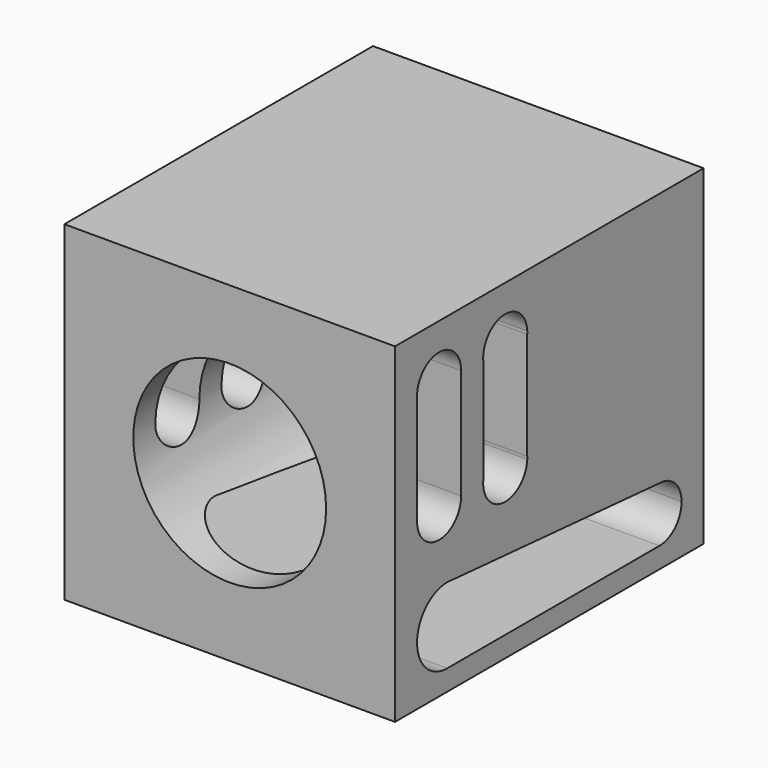
from build123d import *

# Parameters (mm, degrees)
F0_W      = 30.48
F0_H      = 30.48
F1_DEPTH  = 35.56
F3_DEPTH  = 38.1
F5_DEPTH  = 38.1
F6_R      = 8.89
F7_DEPTH  = 22.86
F8_R      = 10.16
F9_DEPTH  = 1.27
F10_R     = 6.35
F11_DEPTH = 38.1
F12_R     = 6.35
F13_DEPTH = 25.4


with BuildPart() as f1:
    # F0 (on Front) → F1 (new body)
    with BuildSketch(Plane.XZ):
        Rectangle(F0_W, F0_H)
    extrude(amount=F1_DEPTH)

    # F2 (on face) → F3 (cut)
    with BuildSketch(Plane(origin=(-15.24, 0, 0), x_dir=(0, -1, 0), z_dir=(-1, 0, 0))):
        with BuildLine():
            ThreePointArc((33.017656, 10.050903), (33.019414, 10.105439), (33.02, 10.16))
            ThreePointArc((33.02, 10.16), (30.48, 12.7), (27.94, 10.16))
            ThreePointArc((27.94, 10.16), (30.425439, 7.620586), (33.017656, 10.050903))
        make_face()
        with BuildLine():
            ThreePointArc((33.017656, 10.050903), (30.425439, 7.620586), (27.94, 10.16))
            Line((27.94, 10.16), (27.94, 0))
            ThreePointArc((27.94, 0), (30.425439, 2.539414), (33.017656, 0.109097))
            Line((33.017656, 0.109097), (33.017656, 10.050903))
        make_face()
        with BuildLine():
            ThreePointArc((33.017656, 0.109097), (30.425439, 2.539414), (27.94, 0))
            ThreePointArc((27.94, 0), (30.425439, -2.539414), (33.017656, -0.109097))
            Line((33.017656, -0.109097), (33.017656, 0.109097))
        make_face()
        with BuildLine():
            ThreePointArc((33.02, 0), (33.019414, 0.054561), (33.017656, 0.109097))
            Line((33.017656, 0.109097), (33.017656, -0.109097))
            ThreePointArc((33.017656, -0.109097), (33.019414, -0.054561), (33.02, 0))
        make_face()
        with BuildLine():
            ThreePointArc((25.391599, 9.953588), (25.397899, 10.056709), (25.4, 10.16))
            ThreePointArc((25.4, 10.16), (22.926198, 12.699137), (20.323451, 10.292352))
            Line((20.323451, 10.292352), (20.323451, 10.027648))
            ThreePointArc((20.323451, 10.027648), (22.822887, 7.620271), (25.391599, 9.953588))
        make_face()
        with BuildLine():
            Line((20.323451, 10.027648), (20.323451, 10.292352))
            ThreePointArc((20.323451, 10.292352), (20.32, 10.16), (20.323451, 10.027648))
        make_face()
        with BuildLine():
            Line((25.391599, 0.206412), (25.391599, 9.953588))
            ThreePointArc((25.391599, 9.953588), (22.822887, 7.620271), (20.323451, 10.027648))
            Line((20.323451, 10.027648), (20.323451, 0.132352))
            ThreePointArc((20.323451, 0.132352), (22.822887, 2.539729), (25.391599, 0.206412))
        make_face()
        with BuildLine():
            Line((25.391599, -0.206412), (25.391599, 0.206412))
            ThreePointArc((25.391599, 0.206412), (22.822887, 2.539729), (20.323451, 0.132352))
            Line((20.323451, 0.132352), (20.323451, -0.132352))
            ThreePointArc((20.323451, -0.132352), (22.822887, -2.539729), (25.391599, -0.206412))
        make_face()
        with BuildLine():
            ThreePointArc((25.4, 0), (25.397899, 0.103291), (25.391599, 0.206412))
            Line((25.391599, 0.206412), (25.391599, -0.206412))
            ThreePointArc((25.391599, -0.206412), (25.397899, -0.103291), (25.4, 0))
        make_face()
        with BuildLine():
            Line((20.323451, -0.132352), (20.323451, 0.132352))
            ThreePointArc((20.323451, 0.132352), (20.32, 0), (20.323451, -0.132352))
        make_face()
    extrude(amount=-F3_DEPTH, mode=Mode.SUBTRACT)

    # F4 (on face) → F5 (cut)
    with BuildSketch(Plane.YZ.offset(15.24)):
        with BuildLine():
            Line((-28.986499, -6.392156), (-29.5275, -6.35))
            ThreePointArc((-29.5275, -6.35), (-33.02, -9.8425), (-29.5275, -13.335))
            ThreePointArc((-29.5275, -13.335), (-27.05793, -12.31207), (-26.035, -9.8425))
            ThreePointArc((-26.035, -9.8425), (-26.873541, -7.572246), (-28.986499, -6.392156))
        make_face()
        with BuildLine():
            ThreePointArc((-28.986499, -6.392156), (-29.25618, -6.360555), (-29.5275, -6.35))
            Line((-29.5275, -6.35), (-28.986499, -6.392156))
        make_face()
        with BuildLine():
            ThreePointArc((-26.035, -9.8425), (-27.05793, -12.31207), (-29.5275, -13.335))
            Line((-29.5275, -13.335), (-5.08, -13.335))
            ThreePointArc((-5.08, -13.335), (-7.62, -10.795), (-5.08, -8.255))
            Line((-5.08, -8.255), (-28.986499, -6.392156))
            ThreePointArc((-28.986499, -6.392156), (-26.873541, -7.572246), (-26.035, -9.8425))
        make_face()
        with BuildLine():
            ThreePointArc((-5.08, -8.255), (-7.62, -10.795), (-5.08, -13.335))
            ThreePointArc((-5.08, -13.335), (-3.283949, -12.591051), (-2.54, -10.795))
            ThreePointArc((-2.54, -10.795), (-3.283949, -8.998949), (-5.08, -8.255))
        make_face()
    extrude(amount=-F5_DEPTH, mode=Mode.SUBTRACT)

    # F6 (on face) → F7 (cut)
    with BuildSketch(Plane.XZ.offset(35.56)):
        Circle(F6_R)
    extrude(amount=-F7_DEPTH, mode=Mode.SUBTRACT)

    # F8 (on face) → F9 (join)
    with BuildSketch(Plane(origin=(0, 0, 0), x_dir=(-1, 0, 0), z_dir=(0, 1, 0))):
        Circle(F8_R)
    extrude(amount=F9_DEPTH)

    # F10 (on face) → F11 (cut)
    with BuildSketch(Plane.XZ):
        Circle(F10_R)
    extrude(amount=-F11_DEPTH, mode=Mode.SUBTRACT)

    # F12 (on face) → F13 (cut)
    with BuildSketch(Plane(origin=(0, 0, 0), x_dir=(-1, 0, 0), z_dir=(0, 1, 0))):
        Circle(F12_R)
    extrude(amount=-F13_DEPTH, mode=Mode.SUBTRACT)


solid = f1.part
